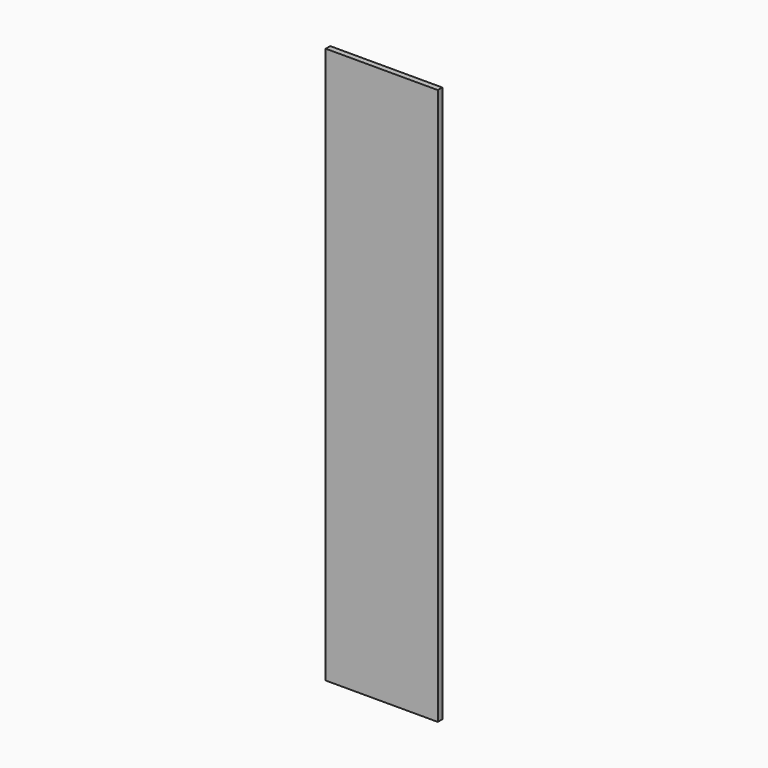
from build123d import *

# Parameters (mm, degrees)
F0_W      = 377.952
F0_H      = 1930.4
F1_DEPTH  = 19.05
F1_FACE_W = 377.952
F1_FACE_H = 19.05
F2_DEPTH  = 53.975


with BuildPart() as f1:
    # F0 (on Front) → F1 (new body)
    with BuildSketch(Plane.XZ):
        Rectangle(F0_W, F0_H)
    extrude(amount=F1_DEPTH)

    # F1_face (on face) → F2 (cut)
    with BuildSketch(Plane(origin=(0, -9.525, -965.2), x_dir=(1, 0, 0), z_dir=(0, 0, -1))):
        Rectangle(F1_FACE_W, F1_FACE_H)
    extrude(amount=-F2_DEPTH, mode=Mode.SUBTRACT)


solid = f1.part
